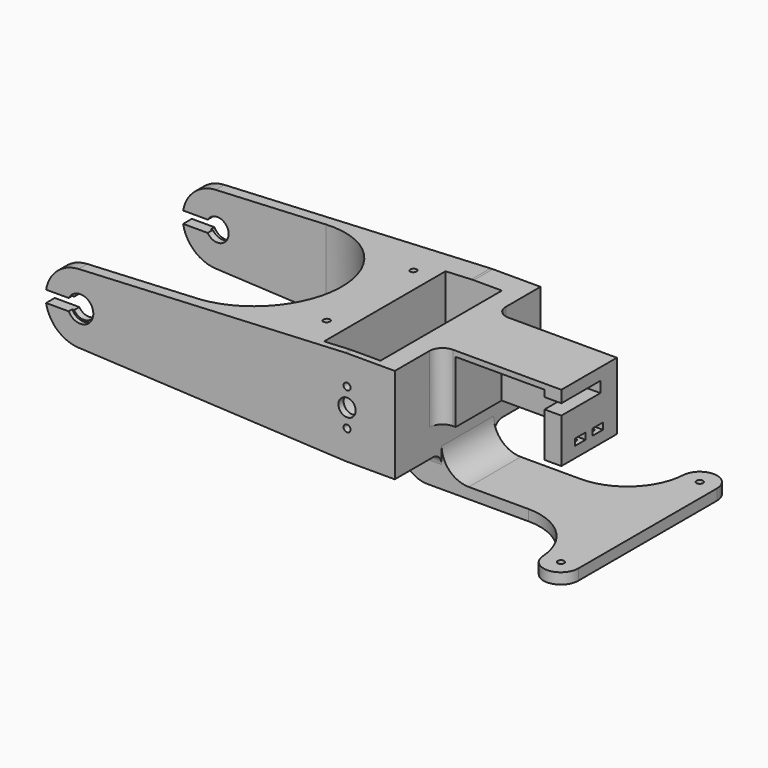
from build123d import *

# Parameters (mm, degrees)
CYLINDER023_R            = 1.5
CYLINDER023_DEPTH        = 75
CYLINDER022_R            = 6
CYLINDER022_DEPTH        = 2
CYLINDER022_ROLL_ANGLE   = 90
PAD013_DEPTH             = 255
BOX014_W                 = 5
BOX014_H                 = 26.5
BOX014_DEPTH             = 56
BOX013_W                 = 31
BOX013_H                 = 23
BOX013_DEPTH             = 41
CYLINDER009_R            = 1.75
CYLINDER009_DEPTH        = 50
CYLINDER009_ROLL_ANGLE   = 90
CYLINDER007_R            = 1.75
CYLINDER007_DEPTH        = 50
CYLINDER007_ROLL_ANGLE   = 90
CYLINDER006_R            = 1.75
CYLINDER006_DEPTH        = 50
CYLINDER006_ROLL_ANGLE   = 90
CYLINDER008_R            = 1.75
CYLINDER008_DEPTH        = 50
CYLINDER008_ROLL_ANGLE   = 90
BOX012_W                 = 3
BOX012_H                 = 12
BOX012_DEPTH             = 6
BOX012_PLACEMENT_ANGLE   = 90
BOX010_W                 = 3
BOX010_H                 = 12
BOX010_DEPTH             = 6
BOX010_PLACEMENT_ANGLE   = 90
BOX009_W                 = 3
BOX009_H                 = 12
BOX009_DEPTH             = 6
BOX009_PLACEMENT_ANGLE   = 90
BOX011_W                 = 3
BOX011_H                 = 12
BOX011_DEPTH             = 6
BOX011_PLACEMENT_ANGLE   = 90
BOX004_W                 = 41
BOX004_H                 = 45.5
BOX004_DEPTH             = 21
CLONE003_PITCH_ANGLE     = -90
CLONE003_PLACEMENT_ANGLE = 90
BOX_W                    = 31
BOX_H                    = 32
BOX_DEPTH                = 56
CUT004_PITCH_ANGLE       = 90
CYLINDER002_R            = 1.6
CYLINDER002_DEPTH        = 100
CYLINDER002_ROLL_ANGLE   = 90
PAD002_DEPTH             = 70
SKETCH_R                 = 5.2
SKETCH_R_2               = 4
PAD_DEPTH                = 10
PAD_DEPTH_BACK           = 80
PAD001_DEPTH             = 100
PAD006_DEPTH             = 30
SKETCH003_R              = 1.5
PAD007_DEPTH             = 5
FILLET_R                 = 12.5
FILLET001_R              = 12
FILLET002_R              = 5
FILLET003_R              = 6


with BuildPart() as cilindro023:
    # Cylinder023 → Cylinder023 (new body)
    with BuildSketch(Plane(origin=(100, 25, -41), x_dir=(1, 0, 0), z_dir=(0, 0, 1))):
        Circle(CYLINDER023_R)
    extrude(amount=CYLINDER023_DEPTH)


with BuildPart() as fusion018:
    # Part__Mirroring004: instance of Cilindro023
    add(cilindro023.part.mirror(Plane(origin=(0, 0, 0), x_dir=(1, 0, 0), z_dir=(0, 1, 0))))

    # Fusion018: union Cilindro023
    add(cilindro023.part)


with BuildPart() as cilindro022:
    # Cylinder022 → Cylinder022 (new body)
    with BuildSketch(Plane.XY):
        Circle(CYLINDER022_R)
    extrude(amount=CYLINDER022_DEPTH)


with BuildPart() as cilindro022_1:
    # Cylinder022 roll: moved
    add(cilindro022.part.rotate(Axis((0, 0, 0), (1, 0, 0)), CYLINDER022_ROLL_ANGLE))


with BuildPart() as cilindro022_2:
    # Cylinder022 placement: moved
    add(cilindro022_1.part.moved(Location((0, -40, 0))))


with BuildPart() as part_mirroring003:
    # Part__Mirroring003: instance of Cilindro022
    add(cilindro022_2.part.mirror(Plane(origin=(0, 0, 0), x_dir=(1, 0, 0), z_dir=(0, 1, 0))))


with BuildPart() as fusion017:
    # Sketch010 → Pad013 (new body)
    with BuildSketch(Plane(origin=(0, 160, 0), x_dir=(-1, 0, 0), z_dir=(0, 1, 0))):
        with BuildLine():
            ThreePointArc((0, 2.7), (-2.7, 0), (0, -2.7))
            Line((0, -2.7), (30.426721, -2.7))
            ThreePointArc((30.426721, -2.7), (33.126721, 0), (30.426721, 2.7))
            Line((0, 2.7), (30.426721, 2.7))
        make_face()
    extrude(amount=-PAD013_DEPTH)

    # Fusion017: union Part__Mirroring003, Cilindro022
    add(part_mirroring003.part)
    add(cilindro022_2.part)


with BuildPart() as cubo006:
    # Box014 → Box014 (new body)
    with BuildSketch(Plane(origin=(150.5, -20, -26.75), x_dir=(1, 0, 0), z_dir=(0, 0, 1))):
        with Locations((2.5, 13.25)):
            Rectangle(BOX014_W, BOX014_H)
    extrude(amount=BOX014_DEPTH)


with BuildPart() as cubo005:
    # Box013 → Box013 (new body)
    with BuildSketch(Plane(origin=(147.5, -16, -26.75), x_dir=(1, 0, 0), z_dir=(0, 0, 1))):
        with Locations((15.5, 11.5)):
            Rectangle(BOX013_W, BOX013_H)
    extrude(amount=BOX013_DEPTH)


with BuildPart() as cilindro009:
    # Cylinder009 → Cylinder009 (new body)
    with BuildSketch(Plane.XY):
        Circle(CYLINDER009_R)
    extrude(amount=CYLINDER009_DEPTH)


with BuildPart() as cilindro009_1:
    # Cylinder009 roll: moved
    add(cilindro009.part.rotate(Axis((0, 0, 0), (1, 0, 0)), CYLINDER009_ROLL_ANGLE))


with BuildPart() as cilindro009_2:
    # Cylinder009 placement: moved
    add(cilindro009_1.part.moved(Location((14.25, 0, 17))))


with BuildPart() as cilindro007:
    # Cylinder007 → Cylinder007 (new body)
    with BuildSketch(Plane.XY):
        Circle(CYLINDER007_R)
    extrude(amount=CYLINDER007_DEPTH)


with BuildPart() as cilindro007_1:
    # Cylinder007 roll: moved
    add(cilindro007.part.rotate(Axis((0, 0, 0), (1, 0, 0)), CYLINDER007_ROLL_ANGLE))


with BuildPart() as cilindro007_2:
    # Cylinder007 placement: moved
    add(cilindro007_1.part.moved(Location((14.25, 0, 7))))


with BuildPart() as cilindro006:
    # Cylinder006 → Cylinder006 (new body)
    with BuildSketch(Plane.XY):
        Circle(CYLINDER006_R)
    extrude(amount=CYLINDER006_DEPTH)


with BuildPart() as cilindro006_1:
    # Cylinder006 roll: moved
    add(cilindro006.part.rotate(Axis((0, 0, 0), (1, 0, 0)), CYLINDER006_ROLL_ANGLE))


with BuildPart() as cilindro006_2:
    # Cylinder006 placement: moved
    add(cilindro006_1.part.moved(Location((-34.75, 0, 7))))


with BuildPart() as fusion003:
    # Cylinder008 → Cylinder008 (new body)
    with BuildSketch(Plane.XY):
        Circle(CYLINDER008_R)
    extrude(amount=CYLINDER008_DEPTH)


with BuildPart() as fusion003_1:
    # Cylinder008 roll: moved
    add(fusion003.part.rotate(Axis((0, 0, 0), (1, 0, 0)), CYLINDER008_ROLL_ANGLE))


with BuildPart() as fusion003_2:
    # Cylinder008 placement: moved
    add(fusion003_1.part.moved(Location((-34.75, 0, 17))))

    # Fusion003: union Cilindro009, Cilindro007, Cilindro006
    add(cilindro009_2.part)
    add(cilindro007_2.part)
    add(cilindro006_2.part)


with BuildPart() as fusion003_3:
    # Fusion003 placement: moved
    add(fusion003_2.part.moved(Location((0, -10, -12))))


with BuildPart() as cube010:
    # Box012 → Box012 (new body)
    with BuildSketch(Plane.XY):
        with Locations((1.5, 6)):
            Rectangle(BOX012_W, BOX012_H)
    extrude(amount=BOX012_DEPTH)


with BuildPart() as cube010_1:
    # Box012 placement: moved
    add(cube010.part.moved(Location((-31.5, -20, -8))).rotate(Axis((-31.5, -20, -8), (0, 0, 1)), BOX012_PLACEMENT_ANGLE))


with BuildPart() as cube008:
    # Box010 → Box010 (new body)
    with BuildSketch(Plane.XY):
        with Locations((1.5, 6)):
            Rectangle(BOX010_W, BOX010_H)
    extrude(amount=BOX010_DEPTH)


with BuildPart() as cube008_1:
    # Box010 placement: moved
    add(cube008.part.moved(Location((23, -20, 2))).rotate(Axis((23, -20, 2), (0, 0, 1)), BOX010_PLACEMENT_ANGLE))


with BuildPart() as cube007:
    # Box009 → Box009 (new body)
    with BuildSketch(Plane.XY):
        with Locations((1.5, 6)):
            Rectangle(BOX009_W, BOX009_H)
    extrude(amount=BOX009_DEPTH)


with BuildPart() as cube007_1:
    # Box009 placement: moved
    add(cube007.part.moved(Location((23, -20, -8))).rotate(Axis((23, -20, -8), (0, 0, 1)), BOX009_PLACEMENT_ANGLE))


with BuildPart() as nuts_room:
    # Box011 → Box011 (new body)
    with BuildSketch(Plane.XY):
        with Locations((1.5, 6)):
            Rectangle(BOX011_W, BOX011_H)
    extrude(amount=BOX011_DEPTH)


with BuildPart() as nuts_room_1:
    # Box011 placement: moved
    add(nuts_room.part.moved(Location((-31.5, -20, 2))).rotate(Axis((-31.5, -20, 2), (0, 0, 1)), BOX011_PLACEMENT_ANGLE))

    # Fusion009: union Cube010, Cube008, Cube007
    add(cube010_1.part)
    add(cube008_1.part)
    add(cube007_1.part)


with BuildPart() as nuts_room_2:
    # Fusion009 placement: moved
    add(nuts_room_1.part.moved(Location((0, -3, 0))))


with BuildPart() as clone_of_fusion010:
    # Box004 → Box004 (new body)
    with BuildSketch(Plane(origin=(-30.75, -45, -10.5), x_dir=(1, 0, 0), z_dir=(0, 0, 1))):
        with Locations((20.5, 22.75)):
            Rectangle(BOX004_W, BOX004_H)
    extrude(amount=BOX004_DEPTH)

    # Fusion010: union Fusion003, nuts_room
    add(fusion003_3.part)
    add(nuts_room_2.part)


with BuildPart() as clone_of_fusion010_1:
    # Clone003 pitch: moved
    add(clone_of_fusion010.part.rotate(Axis((0, 0, 0), (0, 1, 0)), CLONE003_PITCH_ANGLE))


with BuildPart() as clone_of_fusion010_2:
    # Clone003 placement: moved
    add(clone_of_fusion010_1.part.moved(Location((148, 0, 4))).rotate(Axis((148, 0, 4), (0, 0, 1)), CLONE003_PLACEMENT_ANGLE))


with BuildPart() as cut004:
    # Box → Box (new body)
    with BuildSketch(Plane(origin=(145, -16, -34), x_dir=(1, 0, 0), z_dir=(0, 0, 1))):
        with Locations((15.5, 16)):
            Rectangle(BOX_W, BOX_H)
    extrude(amount=BOX_DEPTH)

    # Cut002: cut Clone of Fusion010
    add(clone_of_fusion010_2.part, mode=Mode.SUBTRACT)

    # Cut003: cut Cubo005
    add(cubo005.part, mode=Mode.SUBTRACT)

    # Cut004: cut Cubo006
    add(cubo006.part, mode=Mode.SUBTRACT)


with BuildPart() as cut004_1:
    # Cut004 pitch: moved
    add(cut004.part.rotate(Axis((0, 0, 0), (0, 1, 0)), CUT004_PITCH_ANGLE))


with BuildPart() as cut004_2:
    # Cut004 placement: moved
    add(cut004_1.part.moved(Location((179, 0, 167))))


with BuildPart() as cilindro002:
    # Cylinder002 → Cylinder002 (new body)
    with BuildSketch(Plane.XY):
        Circle(CYLINDER002_R)
    extrude(amount=CYLINDER002_DEPTH)


with BuildPart() as cilindro002_1:
    # Cylinder002 roll: moved
    add(cilindro002.part.rotate(Axis((0, 0, 0), (1, 0, 0)), CYLINDER002_ROLL_ANGLE))


with BuildPart() as cilindro002_2:
    # Cylinder002 placement: moved
    add(cilindro002_1.part.moved(Location((123, 0, 8.5))))


with BuildPart() as clone_of_cilindro002:
    # Clone base: copy of Cilindro002
    add(cilindro002_2.part)


with BuildPart() as clone_of_cilindro002_1:
    # Clone placement: moved
    add(clone_of_cilindro002.part.moved(Location((0, 0, -17))))


with BuildPart() as fusion001:
    # Fusion001 base: copy of Cilindro002
    add(cilindro002_2.part)

    # Fusion001: union Clone of Cilindro002
    add(clone_of_cilindro002_1.part)


with BuildPart() as pad002:
    # Sketch002 → Pad002 (new body)
    with BuildSketch(Plane.XZ.offset(39)):
        with BuildLine():
            ThreePointArc((110, 0), (123, -13), (136, 0))
            Line((136, 0), (136, 50))
            ThreePointArc((136, 50), (123, 63), (110, 50))
            Line((110, 0), (110, 50))
        make_face()
    extrude(amount=-PAD002_DEPTH)


with BuildPart() as cut:
    # Sketch → Pad (new body, two sides)
    with BuildSketch(Plane.XZ.offset(35)) as pad_sk:
        with BuildLine():
            ThreePointArc((-0.780488, 15.980952), (-16, 0), (-0.780488, -15.980952))
            Line((-0.780488, -15.980952), (121.926863, -21.973811))
            ThreePointArc((121.926863, -21.973811), (122.463288, -21.993452), (123.000033, -22))
            Line((145, -22), (123.000033, -22))
            Line((145, 22), (145, -22))
            Line((123.000033, 22), (145, 22))
            ThreePointArc((123.000033, 22), (122.463288, 21.993452), (121.926863, 21.973811))
            Line((-0.780488, 15.980952), (121.926863, 21.973811))
        make_face()
        Circle(SKETCH_R, mode=Mode.SUBTRACT)
        with Locations((123, 0)):
            Circle(SKETCH_R_2, mode=Mode.SUBTRACT)
    extrude(amount=PAD_DEPTH)
    extrude(pad_sk.sketch, amount=-PAD_DEPTH_BACK)

    # Cut: cut Pad002
    add(pad002.part, mode=Mode.SUBTRACT)


with BuildPart() as cut001:
    # Sketch001 → Pad001 (new body)
    with BuildSketch(Plane.XY.offset(50)):
        with BuildLine():
            Line((-16, 42), (-16, 37))
            Line((-16, 37), (50, 37))
            ThreePointArc((50, -37), (86.999999, 0), (50, 37))
            Line((50, -37), (-16, -37))
            Line((-16, -37), (-16, -42))
            Line((-16, -42), (145, -42))
            Line((145, -42), (145, 42))
            Line((145, 42), (-16, 42))
        make_face()
    extrude(amount=-PAD001_DEPTH)

    # Common: intersect Cut
    add(cut.part, mode=Mode.INTERSECT)

    # Cut001: cut Fusion001
    add(fusion001.part, mode=Mode.SUBTRACT)


with BuildPart() as pad006:
    # Sketch004 → Pad006 (new body)
    with BuildSketch(Plane.XZ.offset(15)):
        Polygon((145, -37), (145, -19), (105, -19), (135, -37), align=None)
    extrude(amount=-PAD006_DEPTH)


with BuildPart() as cut019:
    # Sketch003 → Pad007 (new body)
    with BuildSketch(Plane.XY.offset(-32)):
        with BuildLine():
            ThreePointArc((228, 40), (220.235192, 47.996542), (212.013829, 40.470181))
            ThreePointArc((185, 15), (203.563924, 22.371595), (212.013829, 40.470181))
            Line((185, 15), (135, 15))
            Line((135, 15), (135, -15))
            Line((135, -15), (185, -15))
            ThreePointArc((212.013829, -40.470181), (203.563924, -22.371596), (185, -15))
            ThreePointArc((212.013829, -40.470181), (220.235192, -47.996542), (228, -40))
            Line((228, 40), (228, -40))
        make_face()
        with Locations((220, 40)):
            Circle(SKETCH003_R, mode=Mode.SUBTRACT)
        with Locations((220, -40)):
            Circle(SKETCH003_R, mode=Mode.SUBTRACT)
    extrude(amount=-PAD007_DEPTH)

    # Fusion011: union Pad006
    add(pad006.part)

    # Fillet
    fillet_edges = [cut019.edges().sort_by_distance(p)[0] for p in [
        (145, 0, -32),
    ]]
    fillet(fillet_edges, radius=FILLET_R)

    # Fillet001
    fillet001_edges = [cut019.edges().sort_by_distance(p)[0] for p in [
        (135, 0, -37),
    ]]
    fillet(fillet001_edges, radius=FILLET001_R)

    # Fusion012: union Cut001
    add(cut001.part)

    # Fillet002
    fillet002_edges = [cut019.edges().sort_by_distance(p)[0] for p in [
        (134.000017, -15, -22),
        (134.000017, 15, -22),
    ]]
    fillet(fillet002_edges, radius=FILLET002_R)

    # Fusion013: union Cut004
    add(cut004_2.part)

    # Fillet003
    fillet003_edges = [cut019.edges().sort_by_distance(p)[0] for p in [
        (145, -16, 6.5),
        (145, 16, 6.5),
    ]]
    fillet(fillet003_edges, radius=FILLET003_R)

    # Cut018: cut Fusion017
    add(fusion017.part, mode=Mode.SUBTRACT)

    # Cut019: cut Fusion018
    add(fusion018.part, mode=Mode.SUBTRACT)


solid = cut019.part
